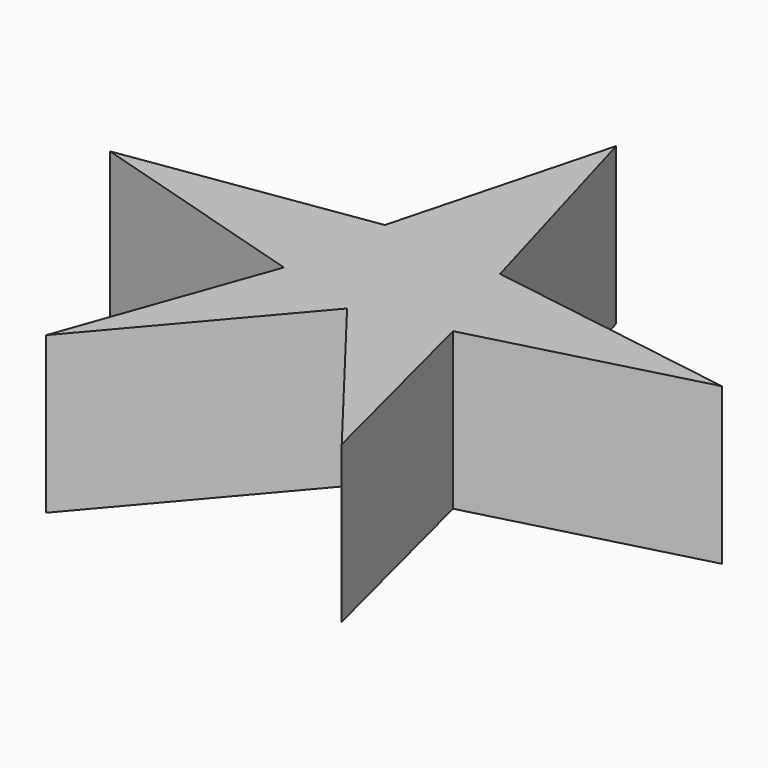
from build123d import *

# Parameters (mm, degrees)
PAD_DEPTH = 20


with BuildPart() as part:
    # Sketch → Pad (new body)
    with BuildSketch(Plane.XY):
        Polygon((0, 33.974388), (8.226485, 5.128232), (40.70512, 0), (12.286325, -7.478606), (18.910248, -33.546982), (0.961537, -10.256382), (-18.910261, -33.546982), (-9.508552, -7.26493), (-38.782059, 1.495752), (-7.3718, 6.196609), align=None)
    extrude(amount=PAD_DEPTH)


solid = part.part
